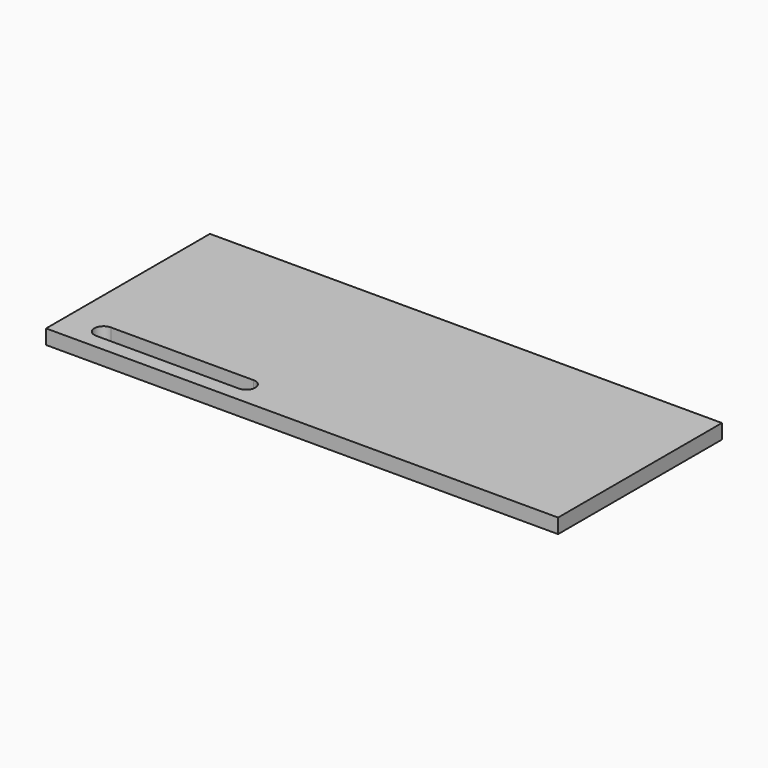
from build123d import *

# Parameters (mm, degrees)
F0_W     = 70
F0_H     = 28
F1_DEPTH = 2


with BuildPart() as f1:
    # F0 (on Top) → F1 (new body)
    with BuildSketch(Plane.XY):
        with Locations((5.381752, -7.812854)):
            Rectangle(F0_W, F0_H)
        with BuildLine():
            ThreePointArc((-24.368248, -19.812854), (-25.618248, -18.562854), (-24.368248, -17.312854))
            Line((-24.368248, -17.312854), (-4.868248, -17.312854))
            ThreePointArc((-4.868248, -17.312854), (-3.618248, -18.562854), (-4.868248, -19.812854))
            Line((-4.868248, -19.812854), (-24.368248, -19.812854))
        make_face(mode=Mode.SUBTRACT)
    extrude(amount=F1_DEPTH)


solid = f1.part
